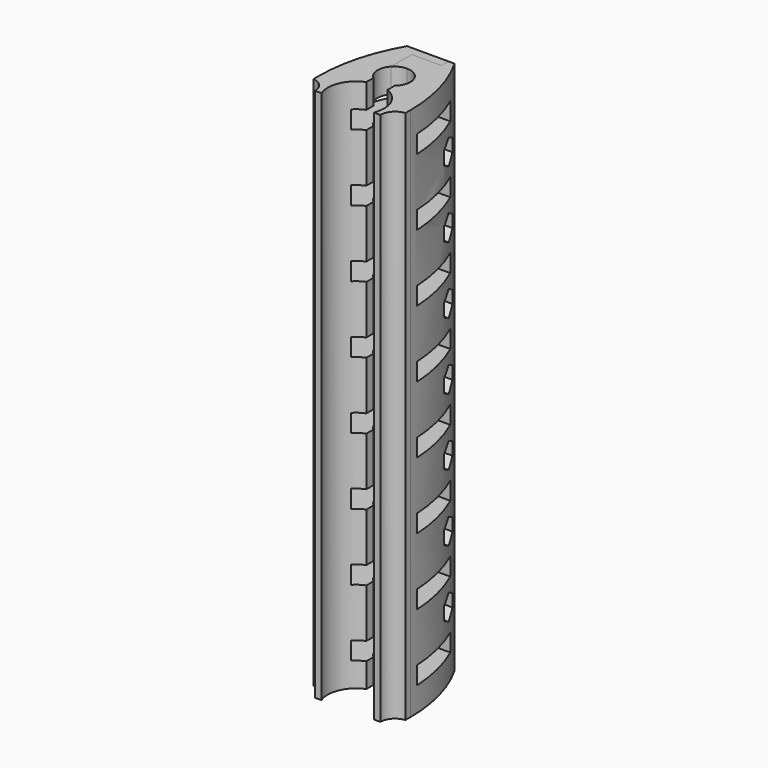
from build123d import *

# Parameters (mm, degrees)
F1_DEPTH  = 180
F0_W      = 6
F0_H      = 3
F2_DEPTH  = 180
F3_R      = 2.5
F4_DEPTH  = 50
F6_START  = -6
F5_R      = 4
F6_DEPTH  = 39.7
F8_START  = 6
F8_DEPTH  = 81.7
F9_W      = 20
F9_H      = 6
F10_DEPTH = 25
F11_R     = 0.75
F12_DEPTH = 25


with BuildPart() as f1:
    # F0 (on Top) → F1 (new body)
    with BuildSketch(Plane.XY):
        with BuildLine():
            ThreePointArc((0, 5.5), (5.1627363049, 1.8963527747), (3.560134297, -4.1923076923))
            Line((3.560134297, -4.1923076923), (3.560134297, -7.1923076923))
            ThreePointArc((3.560134297, -7.1923076923), (8.732673641, -12.2596242061), (8.8317608663, -19.5))
            Line((8.8317608663, -19.5), (11, -19.5))
            ThreePointArc((11, -19.5), (12.2919007565, -16.1458980338), (15.5, -14.5250628145))
            Line((15.5, -14.5250628145), (15.5, -12.5))
            ThreePointArc((15.5, -12.5), (13.5925233517, 1.9935330406), (8, 15.5))
            Line((8, 15.5), (6, 15.5))
            Line((6, 15.5), (6, 12.5))
            Line((6, 12.5), (0, 12.5))
            Line((0, 12.5), (0, 5.5))
        make_face()
        with BuildLine():
            ThreePointArc((-4, 3.7749172176), (-2.1780674121, 5.0503487353), (0, 5.5))
            Line((0, 5.5), (0, 12.5))
            Line((0, 12.5), (-4, 12.5))
            Line((-4, 12.5), (-4, 3.7749172176))
        make_face()
    extrude(amount=F1_DEPTH)


with BuildPart() as f2:
    # F0 (on Top) → F2 (new body)
    with BuildSketch(Plane.XY):
        with BuildLine():
            ThreePointArc((-3.560134297, -4.1923076923), (-5.4916368998, -0.3031899755), (-4, 3.7749172176))
            Line((-4, 3.7749172176), (-4, 12.5))
            Line((-4, 12.5), (0, 12.5))
            Line((0, 12.5), (0, 15.5))
            Line((0, 15.5), (-8, 15.5))
            ThreePointArc((-8, 15.5), (-13.5925233517, 1.9935330406), (-15.5, -12.5))
            Line((-15.5, -12.5), (-15.5, -14.5250628145))
            ThreePointArc((-15.5, -14.5250628145), (-12.2919007565, -16.1458980338), (-11, -19.5))
            Line((-11, -19.5), (-8.8317608663, -19.5))
            ThreePointArc((-8.8317608663, -19.5), (-8.732673641, -12.2596242061), (-3.560134297, -7.1923076923))
            Line((-3.560134297, -7.1923076923), (-3.560134297, -4.1923076923))
        make_face()
        with Locations((3, 14)):
            Rectangle(F0_W, F0_H)
    extrude(amount=F2_DEPTH)


with BuildPart() as f4_tool:
    # F3 (on Right) → F4 (new body, symmetric)
    with BuildSketch(Plane.YZ):
        with Locations((9, 22.5)):
            Circle(F3_R)
        with Locations((9, 45)):
            Circle(F3_R)
        with Locations((9, 67.5)):
            Circle(F3_R)
        with Locations((9, 90)):
            Circle(F3_R)
        with Locations((9, 112.5)):
            Circle(F3_R)
        with Locations((9, 135)):
            Circle(F3_R)
        with Locations((9, 157.5)):
            Circle(F3_R)
    extrude(amount=F4_DEPTH, both=True)


with BuildPart() as f1_1:
    add(f1.part)

    # F4: cut by f4_tool
    add(f4_tool.part, mode=Mode.SUBTRACT)

    # F7 (on Right) → F8 (cut)
    with BuildSketch(Plane.YZ.offset(F8_START)):
        Polygon((5.25, 24.6650635095), (5.25, 20.3349364905), (9, 18.1698729811), (12.75, 20.3349364905), (12.75, 24.6650635095), (9, 26.8301270189), align=None)
        Polygon((5.25, 47.1650635095), (5.25, 42.8349364905), (9, 40.6698729811), (12.75, 42.8349364905), (12.75, 47.1650635095), (9, 49.3301270189), align=None)
        Polygon((12.75, 65.3349364905), (12.75, 69.6650635095), (9, 71.8301270189), (5.25, 69.6650635095), (5.25, 65.3349364905), (9, 63.1698729811), align=None)
        Polygon((12.75, 87.8349364905), (12.75, 92.1650635095), (9, 94.3301270189), (5.25, 92.1650635095), (5.25, 87.8349364905), (9, 85.6698729811), align=None)
        Polygon((12.75, 110.3349364905), (12.75, 114.6650635095), (9, 116.8301270189), (5.25, 114.6650635095), (5.25, 110.3349364905), (9, 108.1698729811), align=None)
        Polygon((5.25, 137.1650635095), (5.25, 132.8349364905), (9, 130.6698729811), (12.75, 132.8349364905), (12.75, 137.1650635095), (9, 139.3301270189), align=None)
        Polygon((5.25, 159.6650635095), (5.25, 155.3349364905), (9, 153.1698729811), (12.75, 155.3349364905), (12.75, 159.6650635095), (9, 161.8301270189), align=None)
    extrude(amount=F8_DEPTH, mode=Mode.SUBTRACT)


with BuildPart() as f2_1:
    add(f2.part)

    # F4: cut by f4_tool
    add(f4_tool.part, mode=Mode.SUBTRACT)

    # F5 (on Right) → F6 (cut)
    with BuildSketch(Plane.YZ.offset(F6_START)):
        with Locations((9, 22.5)):
            Circle(F5_R)
        with Locations((9, 45)):
            Circle(F5_R)
        with Locations((9, 67.5)):
            Circle(F5_R)
        with Locations((9, 90)):
            Circle(F5_R)
        with Locations((9, 112.5)):
            Circle(F5_R)
        with Locations((9, 135)):
            Circle(F5_R)
        with Locations((9, 157.5)):
            Circle(F5_R)
    extrude(amount=-F6_DEPTH, mode=Mode.SUBTRACT)


with BuildPart() as f10_tool:
    # F9 (on Right) → F10 (new body, symmetric)
    with BuildSketch(Plane.YZ):
        with Locations((0.5, 168.75)):
            Rectangle(F9_W, F9_H)
        with Locations((0.5, 146.25)):
            Rectangle(F9_W, F9_H)
        with Locations((0.5, 123.75)):
            Rectangle(F9_W, F9_H)
        with Locations((0.5, 101.25)):
            Rectangle(F9_W, F9_H)
        with Locations((0.5, 78.75)):
            Rectangle(F9_W, F9_H)
        with Locations((0.5, 56.25)):
            Rectangle(F9_W, F9_H)
        with Locations((0.5, 33.75)):
            Rectangle(F9_W, F9_H)
        with Locations((0.5, 11.25)):
            Rectangle(F9_W, F9_H)
    extrude(amount=F10_DEPTH, both=True)


with BuildPart() as f1_2:
    add(f1_1.part)

    # F10: cut by f10_tool
    add(f10_tool.part, mode=Mode.SUBTRACT)


with BuildPart() as f2_2:
    add(f2_1.part)

    # F10: cut by f10_tool
    add(f10_tool.part, mode=Mode.SUBTRACT)

    # F11 (on face) → F12 (cut)
    with BuildSketch(Plane(origin=(0, 15.5, 0), x_dir=(-1, 0, 0), z_dir=(0, 1, 0))):
        with Locations((0, 168.75)):
            Circle(F11_R)
        with Locations((0, 146.25)):
            Circle(F11_R)
        with Locations((0, 123.75)):
            Circle(F11_R)
        with Locations((0, 101.25)):
            Circle(F11_R)
        with Locations((0, 78.75)):
            Circle(F11_R)
        with Locations((0, 56.25)):
            Circle(F11_R)
        with Locations((0, 33.75)):
            Circle(F11_R)
        with Locations((0, 11.25)):
            Circle(F11_R)
    extrude(amount=-F12_DEPTH, mode=Mode.SUBTRACT)


solid = Compound([f1_2.part, f2_2.part])
